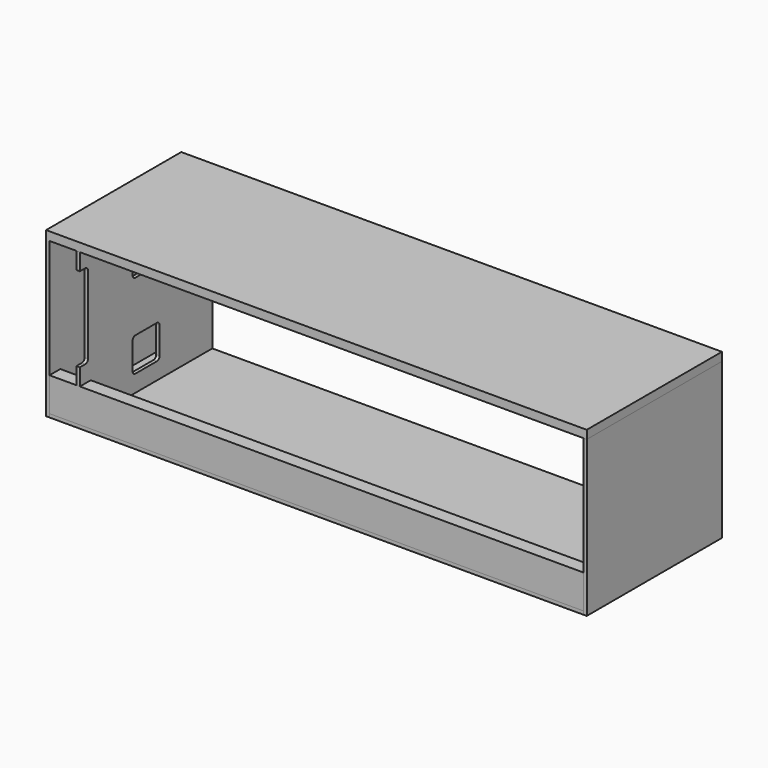
from build123d import *

# Parameters (mm, degrees)
F0_W      = 1600
F0_H      = 500
F1_DEPTH  = 25
F3_W      = 1580
F3_H      = 490
F4_DEPTH  = 10
F5_W      = 10
F5_H      = 500
F6_DEPTH  = 460
F7_W      = 10
F7_H      = 500
F8_DEPTH  = 460
F9_W      = 40
F9_H      = 100
F10_DEPTH = 1580
F11_W     = 10
F11_H     = 450
F12_DEPTH = 450
F13_W     = 10
F13_H     = 350
F14_DEPTH = 40
F16_W     = 30
F16_H     = 250
F17_DEPTH = 100.001
F18_R     = 10
F20_DEPTH = 100.001


with BuildPart() as f1:
    # F0 (on Top) → F1 (new body)
    with BuildSketch(Plane.XY):
        with Locations((800, 250)):
            Rectangle(F0_W, F0_H)
    extrude(amount=F1_DEPTH)

    # F5 (on face) → F6 (join, through all)
    with BuildSketch(Plane.XY):
        with Locations((5, 250)):
            Rectangle(F5_W, F5_H)
    extrude(amount=-F6_DEPTH)


with BuildPart() as f4:
    # F3 (on offset) → F4 (new body)
    with BuildSketch(Plane.XY.offset(-460)):
        with Locations((800, 245)):
            Rectangle(F3_W, F3_H)
    extrude(amount=F4_DEPTH)


with BuildPart() as f8:
    # F7 (on face) → F8 (new body, through all)
    with BuildSketch(Plane.XY):
        with Locations((1595, 250)):
            Rectangle(F7_W, F7_H)
    extrude(amount=-F8_DEPTH)


with BuildPart() as f10:
    # F9 (on face) → F10 (new body, through all)
    with BuildSketch(Plane.YZ.offset(10)):
        with Locations((20, -400)):
            Rectangle(F9_W, F9_H)
    extrude(amount=F10_DEPTH)


with BuildPart() as f12:
    # F11 (on face) → F12 (new body, through all)
    with BuildSketch(Plane.XY.offset(-450)):
        with Locations((95, 265)):
            Rectangle(F11_W, F11_H)
    extrude(amount=F12_DEPTH)


with BuildPart() as f14:
    # F13 (on face) → F14 (new body, through all)
    with BuildSketch(Plane.XZ.offset(-40)):
        with Locations((95, -175)):
            Rectangle(F13_W, F13_H)
    extrude(amount=F14_DEPTH)

    # F15: union F12
    add(f12.part)

    # F16 (on face) → F17 (cut, through all)
    with BuildSketch(Plane.YZ.offset(100)):
        with Locations((15, -175)):
            Rectangle(F16_W, F16_H)
    extrude(amount=-F17_DEPTH, mode=Mode.SUBTRACT)

    # F18
    f18_edges = [f14.edges().sort_by_distance(p)[0] for p in [
        (95, 30, -50),
        (95, 30, -300),
    ]]
    fillet(f18_edges, radius=F18_R)

    # F19 (on face) → F20 (cut, through all)
    with BuildSketch(Plane.YZ.offset(100)):
        with BuildLine():
            Line((285, -50), (205, -50))
            ThreePointArc((205, -50), (197.9289321881, -52.9289321881), (195, -60))
            Line((195, -60), (195, -140))
            ThreePointArc((195, -140), (197.9289321881, -147.0710678119), (205, -150))
            Line((205, -150), (285, -150))
            ThreePointArc((285, -150), (292.0710678119, -147.0710678119), (295, -140))
            Line((295, -140), (295, -60))
            ThreePointArc((295, -60), (292.0710678119, -52.9289321881), (285, -50))
        make_face()
        with BuildLine():
            Line((285, -300), (205, -300))
            ThreePointArc((205, -300), (197.9289321881, -302.9289321881), (195, -310))
            Line((195, -310), (195, -390))
            ThreePointArc((195, -390), (197.9289321881, -397.0710678119), (205, -400))
            Line((205, -400), (285, -400))
            ThreePointArc((285, -400), (292.0710678119, -397.0710678119), (295, -390))
            Line((295, -390), (295, -310))
            ThreePointArc((295, -310), (292.0710678119, -302.9289321881), (285, -300))
        make_face()
    extrude(amount=-F20_DEPTH, mode=Mode.SUBTRACT)


solid = Compound([f1.part, f4.part, f8.part, f10.part, f14.part])
